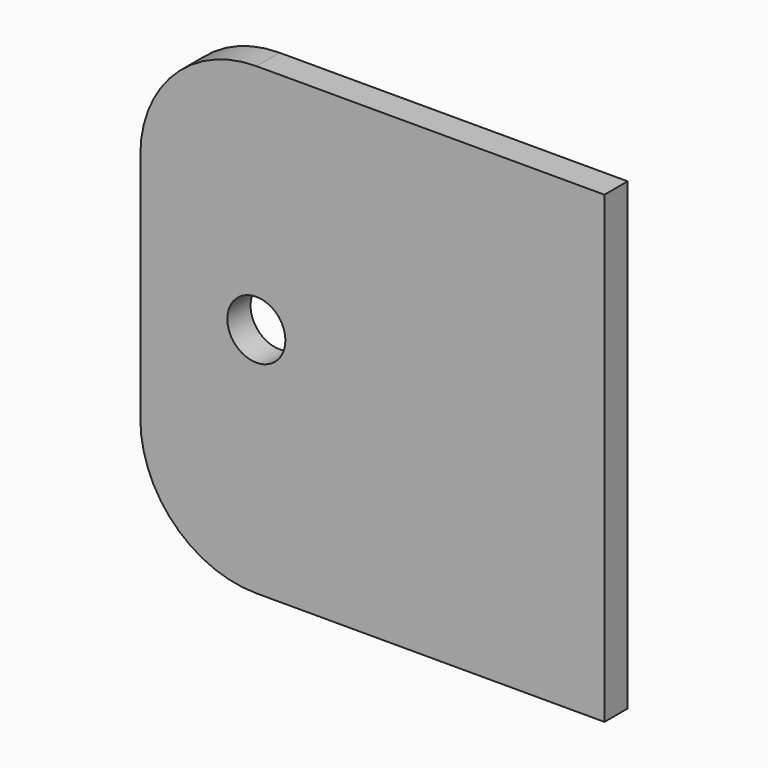
from build123d import *

# Parameters (mm, degrees)
F0_R     = 3.175
F1_DEPTH = 3.175


with BuildPart() as f1:
    # F0 (on Front) → F1 (new body)
    with BuildSketch(Plane.XZ):
        with BuildLine():
            Line((20.588394, 20.031052), (-17.511606, 20.031052))
            ThreePointArc((-17.511606, 20.031052), (-26.491862, 16.311308), (-30.211606, 7.331052))
            Line((-30.211606, 7.331052), (-30.211606, -18.068948))
            ThreePointArc((-30.211606, -18.068948), (-26.491862, -27.049204), (-17.511606, -30.768948))
            Line((-17.511606, -30.768948), (20.588394, -30.768948))
            Line((20.588394, -30.768948), (20.588394, 20.031052))
        make_face()
        with Locations((-17.511606, -5.368948)):
            Circle(F0_R, mode=Mode.SUBTRACT)
    extrude(amount=F1_DEPTH)


solid = f1.part
